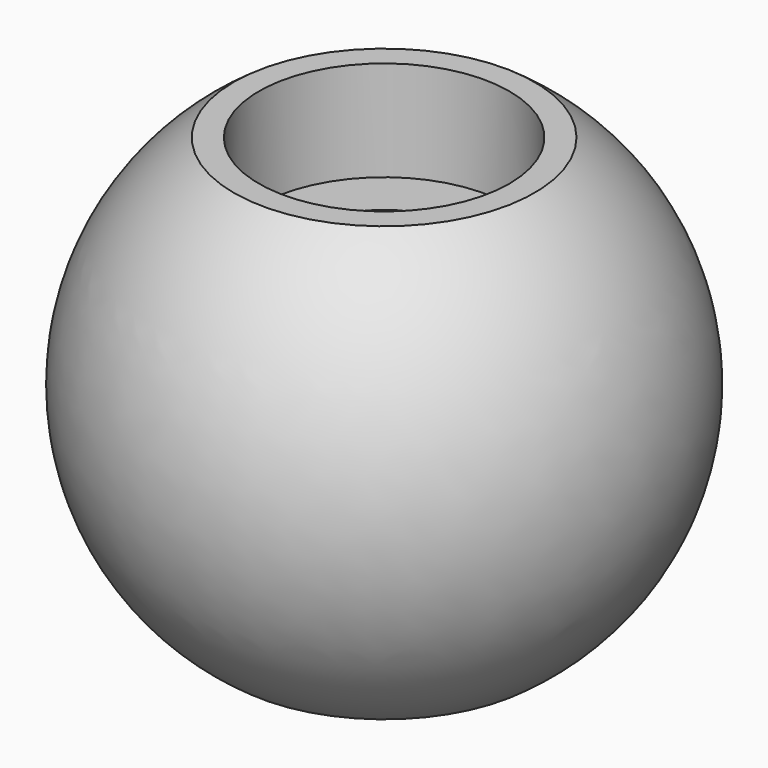
from build123d import *

# Parameters (mm, degrees)
F2_R     = 2.1
F3_DEPTH = 13.001
F2_R_2   = 3.75
F4_DEPTH = 3


with BuildPart() as f1:
    # F0 (on Front) → F1 (revolve)
    with BuildSketch(Plane.XZ):
        with BuildLine():
            Line((0, -6.5), (0, 6.5))
            Line((0, 6.5), (-4.5, 6.5))
            ThreePointArc((-4.5, 6.5), (-7.905694, 0), (-4.5, -6.5))
            Line((-4.5, -6.5), (0, -6.5))
        make_face()
    revolve(axis=Axis((0, 0, 0), (0, 0, 1)))

    # F2 (on face) → F3 (cut, through all)
    with BuildSketch(Plane.XY.offset(6.5)):
        Circle(F2_R)
    extrude(amount=-F3_DEPTH, mode=Mode.SUBTRACT)

    # F2 (on face) → F4 (cut)
    with BuildSketch(Plane.XY.offset(6.5)):
        Circle(F2_R_2)
        Circle(F2_R, mode=Mode.SUBTRACT)
    extrude(amount=-F4_DEPTH, mode=Mode.SUBTRACT)


solid = f1.part
